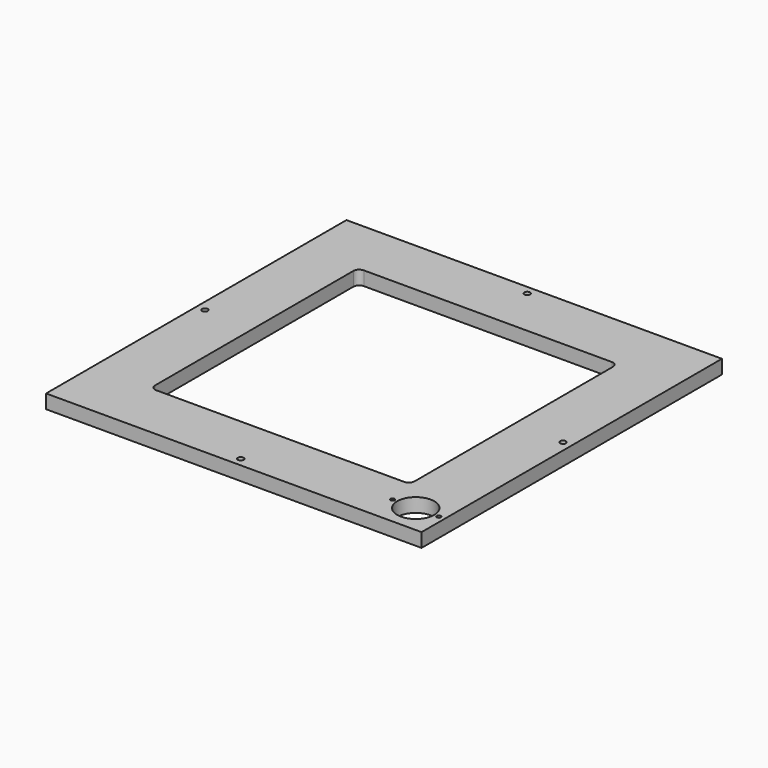
from build123d import *

# Parameters (mm, degrees)
SKETCH_W        = 324
SKETCH_H        = 324
PAD_DEPTH       = 12
POCKET_DEPTH    = 12.001
SKETCH002_R     = 2.5
POCKET001_DEPTH = 12.001
SKETCH003_R     = 16
SKETCH003_R_2   = 1.75
POCKET002_DEPTH = 12.001


with BuildPart() as part:
    # Sketch → Pad (new body)
    with BuildSketch(Plane.XY):
        Rectangle(SKETCH_W, SKETCH_H)
    extrude(amount=PAD_DEPTH)

    # Sketch001 (on Face6 of Pad) → Pocket (cut, through all)
    with BuildSketch(Plane.XY.offset(12)):
        with BuildLine():
            Line((-112, 107.000007), (-112, -106.999984))
            ThreePointArc((-112, -106.999984), (-110.535541, -110.535527), (-107.000004, -112))
            Line((-107.000004, -112), (107.000004, -112))
            ThreePointArc((107.000004, -112), (110.535542, -110.535526), (112, -106.999982))
            Line((112, 107.000009), (112, -106.999982))
            ThreePointArc((112, 107.000009), (110.535532, 110.535536), (107.000003, 112))
            Line((-107.000005, 112), (107.000003, 112))
            ThreePointArc((-107.000005, 112), (-110.535533, 110.535535), (-112, 107.000007))
        make_face()
    extrude(amount=-POCKET_DEPTH, mode=Mode.SUBTRACT)

    # Sketch002 (on Face5 of Pocket) → Pocket001 (cut, through all)
    with BuildSketch(Plane.XY.offset(12)):
        with Locations((0, 154.5)):
            Circle(SKETCH002_R)
        with Locations((-154.5, 0)):
            Circle(SKETCH002_R)
        with Locations((154.5, 0)):
            Circle(SKETCH002_R)
        with Locations((0, -154.5)):
            Circle(SKETCH002_R)
    extrude(amount=-POCKET001_DEPTH, mode=Mode.SUBTRACT)

    # Sketch003 (on Face5 of Pocket001) → Pocket002 (cut, through all)
    with BuildSketch(Plane.XY.offset(12)):
        with Locations((137, -137)):
            Circle(SKETCH003_R)
        with Locations((117.1, -137)):
            Circle(SKETCH003_R_2)
        with Locations((156.9, -137)):
            Circle(SKETCH003_R_2)
    extrude(amount=-POCKET002_DEPTH, mode=Mode.SUBTRACT)


solid = part.part
